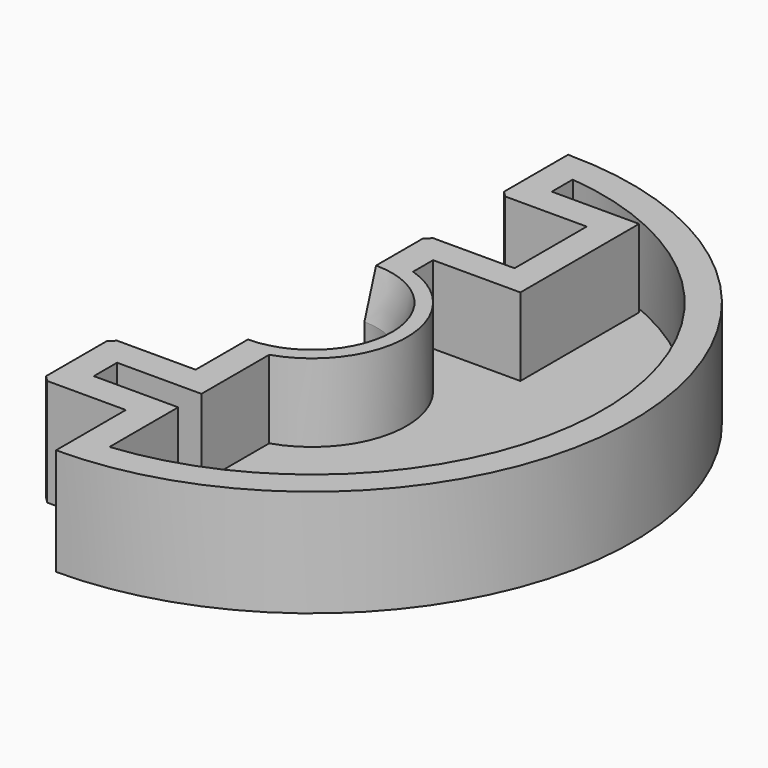
from build123d import *

# Parameters (mm, degrees)
F1_DEPTH = 3.68
F2_T     = -1
F3_SIZE2 = 0.5
F3_SIZE  = 1.5
F4_SIZE  = 0.2


with BuildPart() as f1:
    # F0 (on Top) → F1 (new body)
    with BuildSketch(Plane.XY):
        with BuildLine():
            Line((-22.8056685835, -3.0772873983), (-22.8056685835, -6.0772873983))
            ThreePointArc((-22.8056685835, -6.0772873983), (-11.8056685835, 4.9227126017), (-22.8056685835, 15.9227126017))
            Line((-22.8056685835, 15.9227126017), (-22.8056685835, 12.9727126017))
            Line((-22.8056685835, 12.9727126017), (-19.8056685835, 12.9727126017))
            Line((-19.8056685835, 12.9727126017), (-19.8056685835, 9.8727126017))
            Line((-19.8056685835, 9.8727126017), (-22.8056685835, 9.8727126017))
            Line((-22.8056685835, 9.8727126017), (-22.8056685835, 7.1727126017))
            ThreePointArc((-22.8056685835, 7.1727126017), (-20.5556685835, 4.9227126017), (-22.8056685835, 2.6727126017))
            Line((-22.8056685835, 2.6727126017), (-22.8056685835, -0.0772873983))
            Line((-22.8056685835, -0.0772873983), (-25.7056685835, -0.0772873983))
            Line((-25.7056685835, -0.0772873983), (-25.7056685835, -3.0772873983))
            Line((-25.7056685835, -3.0772873983), (-22.8056685835, -3.0772873983))
        make_face()
    extrude(amount=F1_DEPTH)

    # F2
    f2_openings = [f1.faces().sort_by_distance(p)[0] for p in [
        (-18.10535, 4.278135, 3.68),
    ]]
    offset(amount=F2_T, openings=f2_openings, kind=Kind.INTERSECTION)

    # F3
    f3_edges = [f1.edges().sort_by_distance(p)[0] for p in [
        (-20.555669, 4.922713, 3.68),
        (-20.555669, 4.922713, 0),
    ]]
    f3_side = f1.faces().sort_by_distance((-20.555669, 4.922713, 1.84))[0]
    chamfer(f3_edges, length=F3_SIZE, length2=F3_SIZE2, reference=f3_side)

    # F4
    f4_edges = [f1.edges().sort_by_distance(p)[0] for p in [
        (-25.705669, -0.077287, 1.84),
        (-25.705669, -3.077287, 1.84),
        (-22.805669, 9.872713, 1.84),
        (-22.805669, 12.972713, 1.84),
    ]]
    chamfer(f4_edges, length=F4_SIZE)


solid = f1.part
